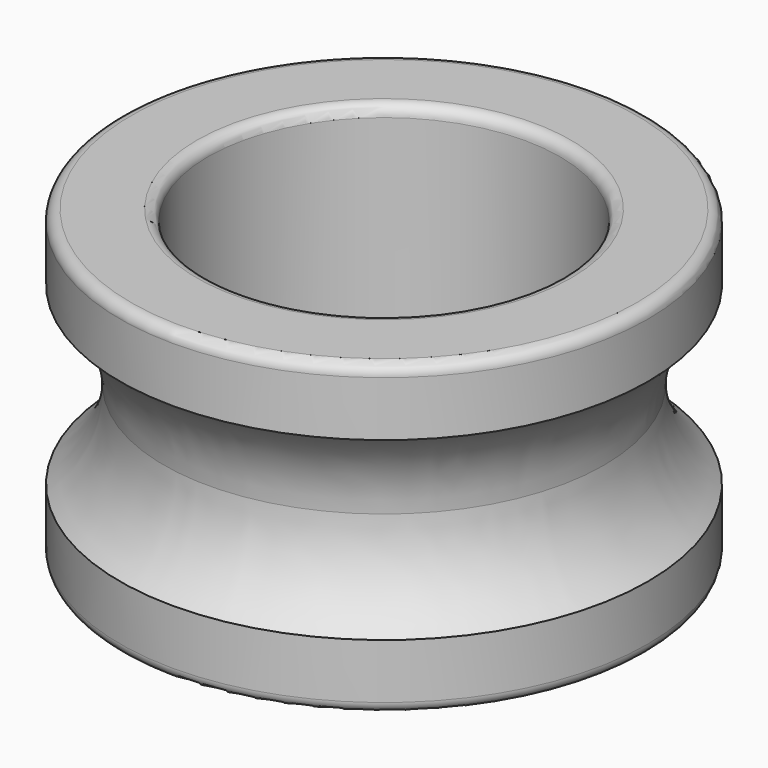
from build123d import *


with BuildPart() as f1:
    # F0 (on Front) → F1 (revolve)
    with BuildSketch(Plane.XZ):
        with BuildLine():
            Line((4, 3.25), (4, 0))
            Line((4, 0), (5, 0))
            ThreePointArc((5, 0), (5.263932, 1.118034), (6, 2))
            Line((6, 2), (6, 3.25))
            ThreePointArc((6, 3.25), (5.926777, 3.426777), (5.75, 3.5))
            Line((5.75, 3.5), (4.25, 3.5))
            ThreePointArc((4.25, 3.5), (4.073223, 3.426777), (4, 3.25))
        make_face()
        with BuildLine():
            Line((5, 0), (4, 0))
            Line((4, 0), (4, -3.25))
            ThreePointArc((4, -3.25), (4.073223, -3.426777), (4.25, -3.5))
            Line((4.25, -3.5), (5.75, -3.5))
            ThreePointArc((5.75, -3.5), (5.926777, -3.426777), (6, -3.25))
            Line((6, -3.25), (6, -2))
            ThreePointArc((6, -2), (5.263932, -1.118034), (5, 0))
        make_face()
    revolve(axis=Axis((0, 0, 0.334755), (0, 0, -1)))


solid = f1.part
